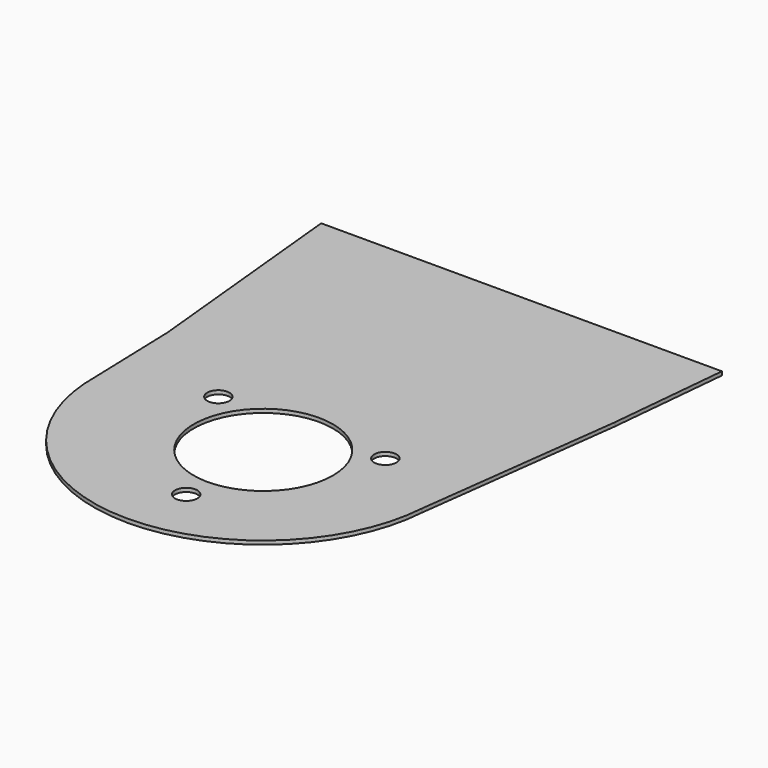
from build123d import *

# Parameters (mm, degrees)
F0_R     = 6
F0_R_2   = 37.5
F1_DEPTH = 2


with BuildPart() as f1:
    # F0 (on Top) → F1 (new body)
    with BuildSketch(Plane.XY):
        with BuildLine():
            Line((-98.32473, 58.55725), (-96.5, 0))
            ThreePointArc((-96.5, 0), (-5.5, -84.665928), (85.5, 0))
            Line((85.5, 0), (99.828532, 112.015683))
            Line((99.828532, 112.015683), (106, 176.5))
            Line((106, 176.5), (-110, 176.5))
            Line((-110, 176.5), (-98.32473, 58.55725))
        make_face()
        with Locations((-45.000197, 25.980573)):
            Circle(F0_R, mode=Mode.SUBTRACT)
        with Locations((0, -51.9616)):
            Circle(F0_R, mode=Mode.SUBTRACT)
        Circle(F0_R_2, mode=Mode.SUBTRACT)
        with Locations((45.000197, 25.980573)):
            Circle(F0_R, mode=Mode.SUBTRACT)
    extrude(amount=F1_DEPTH)


solid = f1.part
